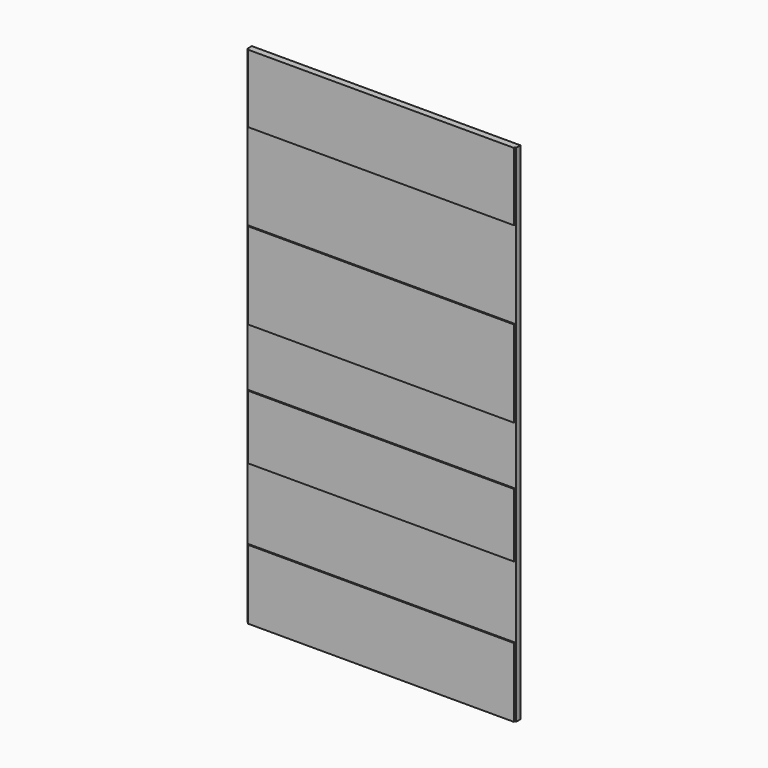
from build123d import *

# Parameters (mm, degrees)
F0_W     = 160.1724
F0_H     = 301.371
F1_DEPTH = 3.175
F2_W     = 158.75
F2_H     = 40.64
F2_H_2   = 51.562
F2_H_3   = 38.1
F2_H_4   = 41.402
F3_DEPTH = 0.762


with BuildPart() as f1:
    # F0 (on Front) → F1 (new body)
    with BuildSketch(Plane.XZ):
        with Locations((580.1487, 150.6855)):
            Rectangle(F0_W, F0_H)
    extrude(amount=F1_DEPTH)

    # F2 (on face) → F3 (join)
    with BuildSketch(Plane.XZ.offset(3.175)):
        with Locations((580.1487, 281.051)):
            Rectangle(F2_W, F2_H)
        with Locations((580.1487, 182.88)):
            Rectangle(F2_W, F2_H_2)
        with Locations((580.1487, 103.251)):
            Rectangle(F2_W, F2_H_3)
        with Locations((580.1487, 20.701)):
            Rectangle(F2_W, F2_H_4)
    extrude(amount=F3_DEPTH)


solid = f1.part
